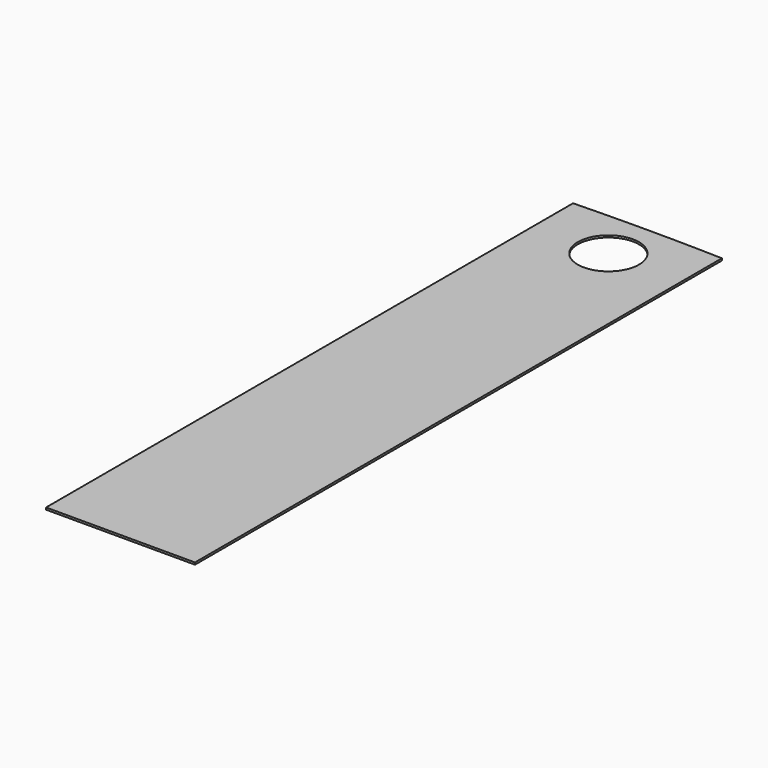
from build123d import *

# Parameters (mm, degrees)
F1_DEPTH = 25.4


with BuildPart() as f1:
    # F0 (on Top) → F1 (new body)
    with BuildSketch(Plane.XY):
        with BuildLine():
            Line((-8110.342875, 8203.565), (-8110.342875, 0))
            Line((-8110.342875, 0), (-7183.242875, 0))
            Line((-7183.242875, 0), (-7183.242875, 7213.857216))
            ThreePointArc((-7183.242875, 7213.857216), (-7564.242875, 7594.857216), (-7183.242875, 7975.857216))
            Line((-7183.242875, 7975.857216), (-7183.242875, 8217.1032))
            ThreePointArc((-7183.242875, 8217.1032), (-7646.842296, 8213.71847), (-8110.342875, 8203.565))
        make_face()
        with BuildLine():
            Line((-7183.242875, 7213.857216), (-7183.242875, 0))
            Line((-7183.242875, 0), (-6256.142875, 0))
            Line((-6256.142875, 0), (-6256.142875, 8203.565))
            ThreePointArc((-6256.142875, 8203.565), (-6719.643454, 8213.71847), (-7183.242875, 8217.1032))
            Line((-7183.242875, 8217.1032), (-7183.242875, 7975.857216))
            ThreePointArc((-7183.242875, 7975.857216), (-6913.835192, 7864.2649), (-6802.242875, 7594.857216))
            ThreePointArc((-6802.242875, 7594.857216), (-6913.835192, 7325.449532), (-7183.242875, 7213.857216))
        make_face()
    extrude(amount=F1_DEPTH)


solid = f1.part
